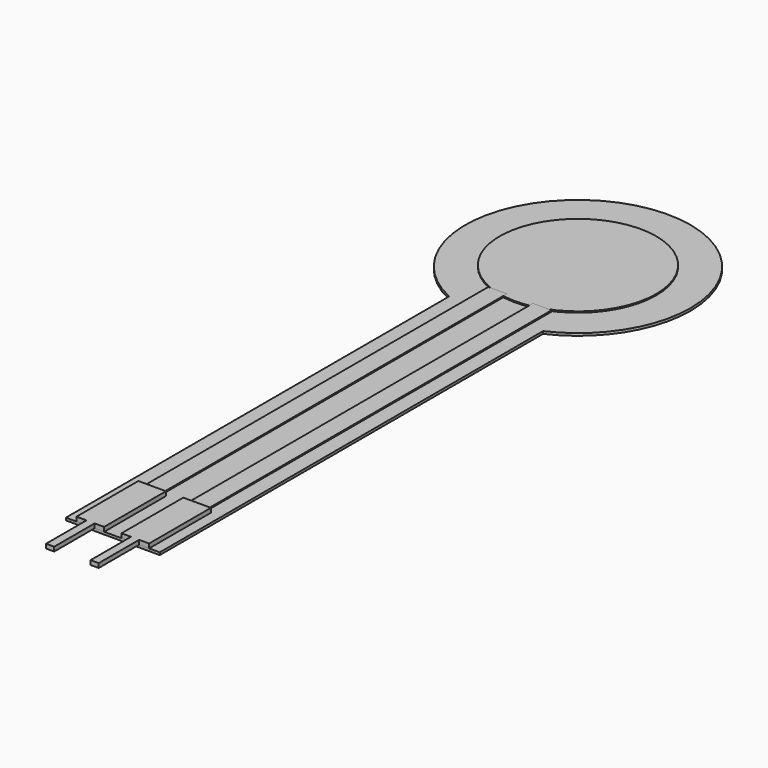
from build123d import *

# Parameters (mm, degrees)
F0_R     = 6.35
F1_DEPTH = 0.2
F2_DEPTH = 0.3
F3_W     = 1.513528
F3_H     = 41.301278
F4_DEPTH = 0.1
F5_W     = 0.660953
F5_H     = 4.098776
F6_DEPTH = 0.35


with BuildPart() as f1:
    # F0 (on Top) → F1 (new body)
    with BuildSketch(Plane.XY):
        with BuildLine():
            ThreePointArc((3.81, -8.308038), (0, -9.14), (-3.81, -8.308038))
            Line((-3.81, -8.308038), (-3.81, -47.19))
            Line((-3.81, -47.19), (3.81, -47.19))
            Line((3.81, -47.19), (3.81, -8.308038))
        make_face()
        with BuildLine():
            ThreePointArc((3.81, -8.308038), (7.692951, -4.935393), (9.14, 0))
            ThreePointArc((9.14, 0), (-4.935393, 7.692951), (-3.81, -8.308038))
            ThreePointArc((-3.81, -8.308038), (0, -9.14), (3.81, -8.308038))
        make_face()
        Circle(F0_R, mode=Mode.SUBTRACT)
        Circle(F0_R)
    extrude(amount=F1_DEPTH)


with BuildPart() as f2:
    # F0 (on Top) → F2 (new body)
    with BuildSketch(Plane.XY):
        Circle(F0_R)
    extrude(amount=F2_DEPTH)


with BuildPart() as f4:
    # F3 (on face) → F4 (new body)
    with BuildSketch(Plane.XY.offset(0.2)):
        with Locations((-1.808152, -26.539361)):
            Rectangle(F3_W, F3_H)
        with Locations((1.808152, -26.539361)):
            Rectangle(F3_W, F3_H)
    extrude(amount=F4_DEPTH)


with BuildPart() as f6:
    # F5 (on face) → F6 (new body)
    with BuildSketch(Plane.XY.offset(0.2)):
        with Locations((-1.806076, -49.239388)):
            Rectangle(F5_W, F5_H)
        Polygon((0.703611, -40.918831), (0.703611, -47.19), (1.4756, -47.19), (2.136553, -47.19), (2.946904, -47.19), (2.946904, -40.918831), align=None)
        Polygon((-2.946904, -40.918831), (-2.946904, -47.19), (-2.136553, -47.19), (-1.4756, -47.19), (-0.703611, -47.19), (-0.703611, -40.918831), align=None)
        with Locations((1.806076, -49.239388)):
            Rectangle(F5_W, F5_H)
    extrude(amount=F6_DEPTH)


solid = Compound([f1.part, f2.part, f4.part, f6.part])
